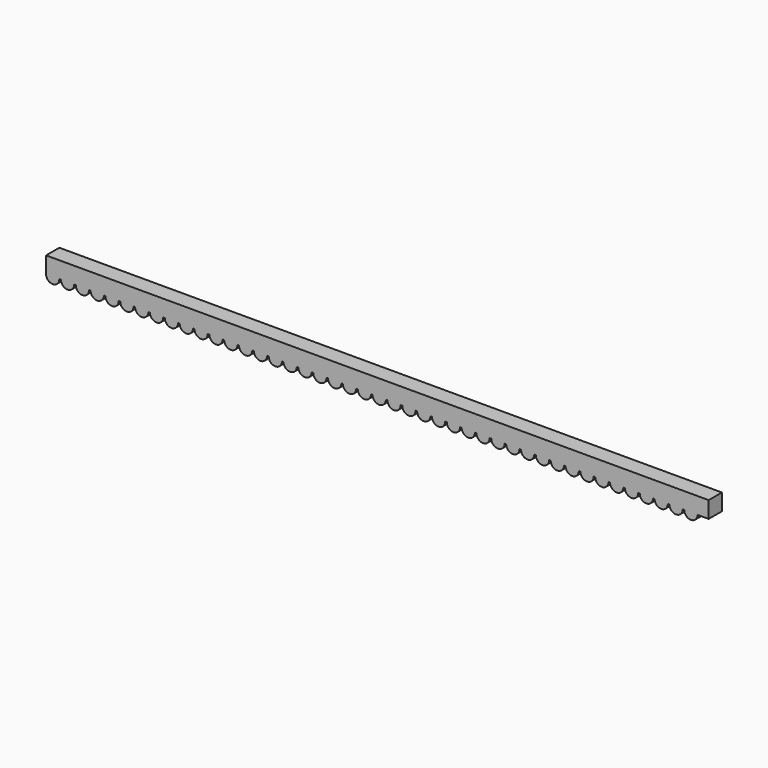
from build123d import *

# Parameters (mm, degrees)
F1_DEPTH = 6.35


with BuildPart() as f1:
    # F0 (on Front) → F1 (new body)
    with BuildSketch(Plane.XZ):
        with BuildLine():
            Line((254, 6.35), (0, 6.35))
            Line((0, 6.35), (0, 0))
            ThreePointArc((0, 0), (2.54, -2.54), (5.08, 0))
            Line((5.08, 0), (5.6896, 0))
            ThreePointArc((5.6896, 0), (8.2296, -2.54), (10.7696, 0))
            Line((10.7696, 0), (11.3792, 0))
            ThreePointArc((11.3792, 0), (13.9192, -2.54), (16.4592, 0))
            Line((16.4592, 0), (17.0688, 0))
            ThreePointArc((17.0688, 0), (19.6088, -2.54), (22.1488, 0))
            Line((22.1488, 0), (22.7584, 0))
            ThreePointArc((22.7584, 0), (25.2984, -2.54), (27.8384, 0))
            Line((27.8384, 0), (28.448, 0))
            ThreePointArc((28.448, 0), (30.988, -2.54), (33.528, 0))
            Line((33.528, 0), (34.1376, 0))
            ThreePointArc((34.1376, 0), (36.6776, -2.54), (39.2176, 0))
            Line((39.2176, 0), (39.8272, 0))
            ThreePointArc((39.8272, 0), (42.3672, -2.54), (44.9072, 0))
            Line((44.9072, 0), (45.5168, 0))
            ThreePointArc((45.5168, 0), (48.0568, -2.54), (50.5968, 0))
            Line((50.5968, 0), (51.2064, 0))
            ThreePointArc((51.2064, 0), (53.7464, -2.54), (56.2864, 0))
            Line((56.2864, 0), (56.896, 0))
            ThreePointArc((56.896, 0), (59.436, -2.54), (61.976, 0))
            Line((61.976, 0), (62.5856, 0))
            ThreePointArc((62.5856, 0), (65.1256, -2.54), (67.6656, 0))
            Line((67.6656, 0), (68.2752, 0))
            ThreePointArc((68.2752, 0), (70.8152, -2.54), (73.3552, 0))
            Line((73.3552, 0), (73.9648, 0))
            ThreePointArc((73.9648, 0), (76.5048, -2.54), (79.0448, 0))
            Line((79.0448, 0), (79.6544, 0))
            ThreePointArc((79.6544, 0), (82.1944, -2.54), (84.7344, 0))
            Line((84.7344, 0), (85.344, 0))
            ThreePointArc((85.344, 0), (87.884, -2.54), (90.424, 0))
            Line((90.424, 0), (91.0336, 0))
            ThreePointArc((91.0336, 0), (93.5736, -2.54), (96.1136, 0))
            Line((96.1136, 0), (96.7232, 0))
            ThreePointArc((96.7232, 0), (99.2632, -2.54), (101.8032, 0))
            Line((101.8032, 0), (102.4128, 0))
            ThreePointArc((102.4128, 0), (104.9528, -2.54), (107.4928, 0))
            Line((107.4928, 0), (108.1024, 0))
            ThreePointArc((108.1024, 0), (110.6424, -2.54), (113.1824, 0))
            Line((113.1824, 0), (113.792, 0))
            ThreePointArc((113.792, 0), (116.332, -2.54), (118.872, 0))
            Line((118.872, 0), (119.4816, 0))
            ThreePointArc((119.4816, 0), (122.0216, -2.54), (124.5616, 0))
            Line((124.5616, 0), (125.1712, 0))
            ThreePointArc((125.1712, 0), (127.7112, -2.54), (130.2512, 0))
            Line((130.2512, 0), (130.8608, 0))
            ThreePointArc((130.8608, 0), (133.4008, -2.54), (135.9408, 0))
            Line((135.9408, 0), (136.5504, 0))
            ThreePointArc((136.5504, 0), (139.0904, -2.54), (141.6304, 0))
            Line((141.6304, 0), (142.24, 0))
            ThreePointArc((142.24, 0), (144.78, -2.54), (147.32, 0))
            Line((147.32, 0), (147.9296, 0))
            ThreePointArc((147.9296, 0), (150.4696, -2.54), (153.0096, 0))
            Line((153.0096, 0), (153.6192, 0))
            ThreePointArc((153.6192, 0), (156.1592, -2.54), (158.6992, 0))
            Line((158.6992, 0), (159.3088, 0))
            ThreePointArc((159.3088, 0), (161.8488, -2.54), (164.3888, 0))
            Line((164.3888, 0), (164.9984, 0))
            ThreePointArc((164.9984, 0), (167.5384, -2.54), (170.0784, 0))
            Line((170.0784, 0), (170.688, 0))
            ThreePointArc((170.688, 0), (173.228, -2.54), (175.768, 0))
            Line((175.768, 0), (176.3776, 0))
            ThreePointArc((176.3776, 0), (178.9176, -2.54), (181.4576, 0))
            Line((181.4576, 0), (182.0672, 0))
            ThreePointArc((182.0672, 0), (184.6072, -2.54), (187.1472, 0))
            Line((187.1472, 0), (187.7568, 0))
            ThreePointArc((187.7568, 0), (190.2968, -2.54), (192.8368, 0))
            Line((192.8368, 0), (193.4464, 0))
            ThreePointArc((193.4464, 0), (195.9864, -2.54), (198.5264, 0))
            Line((198.5264, 0), (199.136, 0))
            ThreePointArc((199.136, 0), (201.676, -2.54), (204.216, 0))
            Line((204.216, 0), (204.8256, 0))
            ThreePointArc((204.8256, 0), (207.3656, -2.54), (209.9056, 0))
            Line((209.9056, 0), (210.5152, 0))
            ThreePointArc((210.5152, 0), (213.0552, -2.54), (215.5952, 0))
            Line((215.5952, 0), (216.2048, 0))
            ThreePointArc((216.2048, 0), (218.7448, -2.54), (221.2848, 0))
            Line((221.2848, 0), (221.8944, 0))
            ThreePointArc((221.8944, 0), (224.4344, -2.54), (226.9744, 0))
            Line((226.9744, 0), (227.584, 0))
            ThreePointArc((227.584, 0), (230.124, -2.54), (232.664, 0))
            Line((232.664, 0), (233.2736, 0))
            ThreePointArc((233.2736, 0), (235.8136, -2.54), (238.3536, 0))
            Line((238.3536, 0), (238.9632, 0))
            ThreePointArc((238.9632, 0), (241.5032, -2.54), (244.0432, 0))
            Line((244.0432, 0), (244.6528, 0))
            ThreePointArc((244.6528, 0), (247.1928, -2.54), (249.7328, 0))
            Line((249.7328, 0), (254, 0))
            Line((254, 0), (254, 6.35))
        make_face()
    extrude(amount=F1_DEPTH)


solid = f1.part
